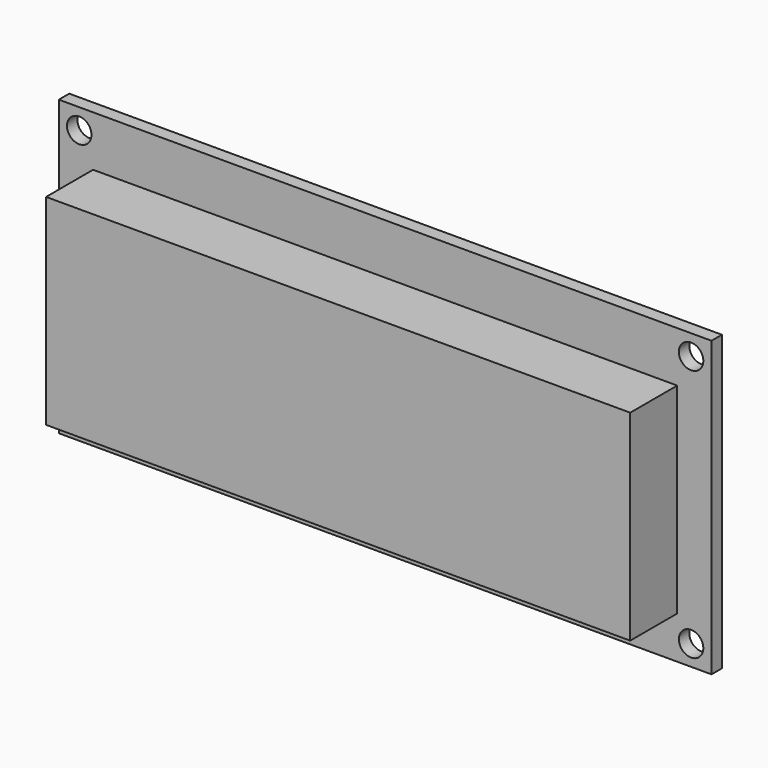
from build123d import *

# Parameters (mm, degrees)
F0_W     = 80
F0_H     = 36
F0_R     = 1.5
F1_DEPTH = 1.6
F2_W     = 71.6
F2_H     = 24.6
F3_DEPTH = 7.2
F4_W     = 65
F4_H     = 14
F5_DEPTH = 1


with BuildPart() as f1:
    # F0 (on Front) → F1 (new body)
    with BuildSketch(Plane.XZ):
        with Locations((2.698481, -4.318948)):
            Rectangle(F0_W, F0_H)
        with Locations((-34.801519, -19.818948)):
            Circle(F0_R, mode=Mode.SUBTRACT)
        with Locations((40.198481, -19.818948)):
            Circle(F0_R, mode=Mode.SUBTRACT)
        with Locations((-34.801519, 11.181052)):
            Circle(F0_R, mode=Mode.SUBTRACT)
        with Locations((40.198481, 11.181052)):
            Circle(F0_R, mode=Mode.SUBTRACT)
    extrude(amount=F1_DEPTH)

    # F2 (on face) → F3 (join)
    with BuildSketch(Plane.XZ.offset(1.6)):
        with Locations((2.698481, -4.818948)):
            Rectangle(F2_W, F2_H)
    extrude(amount=F3_DEPTH)

    # F4 (on face) → F5 (join)
    with BuildSketch(Plane.XZ.offset(8.8)):
        with Locations((2.748481, -5.466159)):
            Rectangle(F4_W, F4_H)
    extrude(amount=-F5_DEPTH)


solid = f1.part
